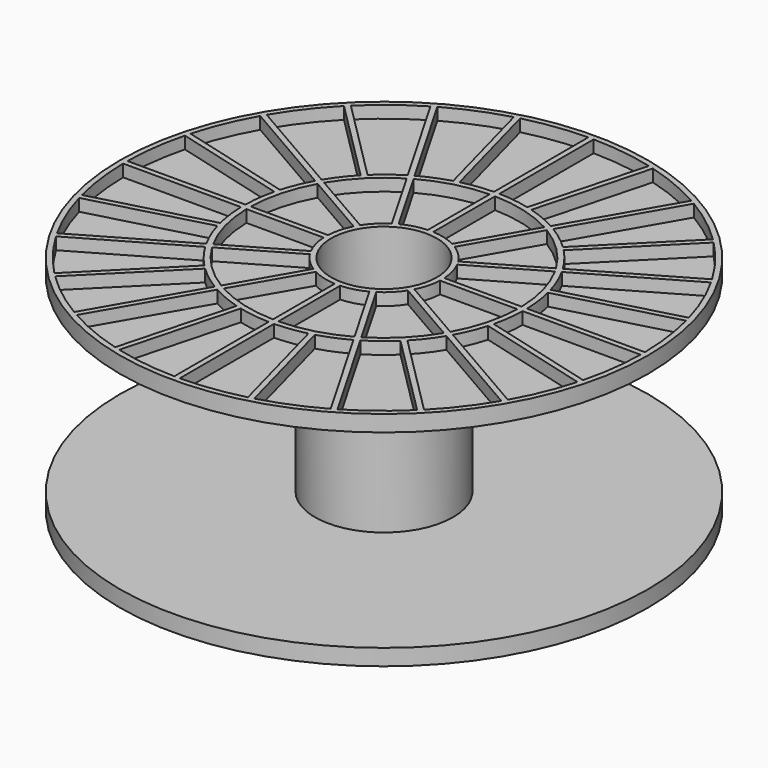
from build123d import *

# Parameters (mm, degrees)
PAD002_DEPTH  = 4.5
ARRAY_COUNT   = 12
ARRAY_ANGLE   = 330
SKETCH_R      = 97.5
SKETCH_R_2    = 19.5
PAD_DEPTH     = 6
SKETCH001_R   = 25.5
SKETCH001_R_2 = 19.5
PAD001_DEPTH  = 35


with BuildPart() as array:
    # Sketch002 → Pad002 (new body)
    with BuildSketch(Plane.XY):
        with BuildLine():
            Line((83.200892, 46.881357), (45.524993, 25.129166))
            ThreePointArc((49.960035, 14.422027), (48.041736, 19.899538), (45.524993, 25.129166))
            Line((49.960035, 14.422027), (91.98204, 25.68179))
            ThreePointArc((91.98204, 25.68179), (88.230495, 36.546268), (83.200892, 46.881357))
        make_face()
        with BuildLine():
            Line((50.477673, 12.490176), (92.499678, 23.749938))
            ThreePointArc((95.494764, 1), (94.682984, 12.465251), (92.499678, 23.749938))
            Line((95.494764, 1), (51.990384, 1))
            ThreePointArc((51.990384, 1), (51.555133, 6.787362), (50.477673, 12.490176))
        make_face()
        with BuildLine():
            Line((43.792609, 24.128974), (19.099395, 9.87234))
            ThreePointArc((21.476732, 1), (20.767405, 5.564609), (19.099395, 9.87234))
            Line((21.476732, 1), (49.989999, 1))
            ThreePointArc((49.989999, 1), (48.296291, 12.940952), (43.792609, 24.128974))
        make_face()
    extrude(amount=PAD002_DEPTH)

    # Array: Array ×12 about axis
    array_axis = Axis((0, 0, 0), (0, 0, 1))


with BuildPart() as array_1:
    add(array.part)
    for i in range(1, ARRAY_COUNT):
        add(array.part.rotate(array_axis, i * ARRAY_ANGLE / (ARRAY_COUNT - 1)))


with BuildPart() as cut:
    # Sketch → Pad (new body)
    with BuildSketch(Plane.XY):
        Circle(SKETCH_R)
        Circle(SKETCH_R_2, mode=Mode.SUBTRACT)
    extrude(amount=PAD_DEPTH)

    # Sketch001 → Pad001 (new body)
    with BuildSketch(Plane.XY.offset(6)):
        Circle(SKETCH001_R)
        Circle(SKETCH001_R_2, mode=Mode.SUBTRACT)
    extrude(amount=PAD001_DEPTH)

    # Cut: cut Array
    add(array_1.part, mode=Mode.SUBTRACT)


with BuildPart() as part_mirroring:
    # Part__Mirroring: instance of Cut
    add(cut.part.mirror(Plane(origin=(0, 0, 41), x_dir=(0, 1, 0), z_dir=(0, 0, 1))))


with BuildPart() as fusion:
    # Fusion base: copy of Cut
    add(cut.part)

    # Fusion: union Part__Mirroring
    add(part_mirroring.part)


solid = fusion.part
